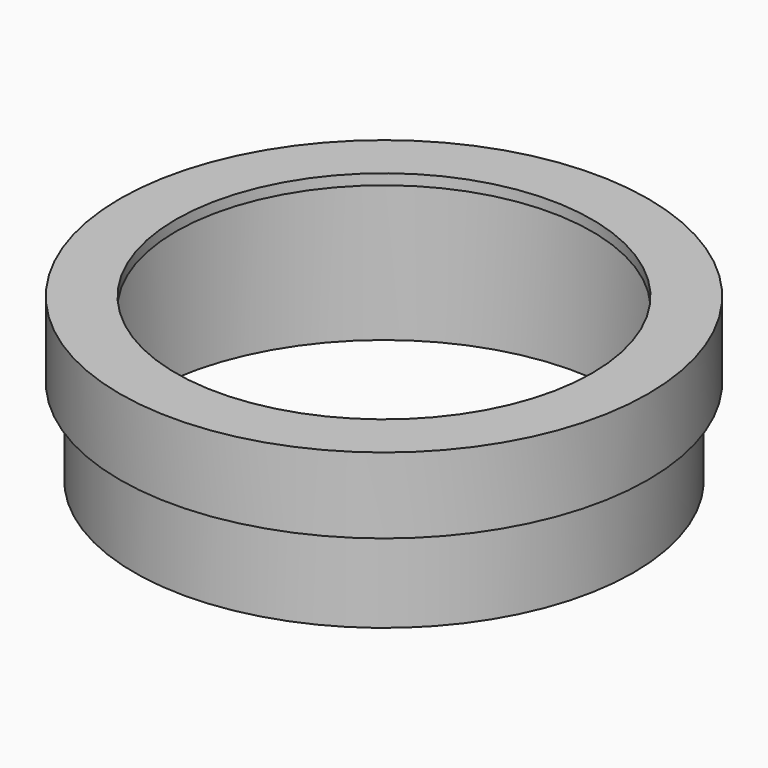
from build123d import *

# Parameters (mm, degrees)
F0_R     = 41.91
F0_R_2   = 39.8018
F1_DEPTH = 12.7


with BuildPart() as f1:
    # F0 (on Top) → F1 (new body, symmetric)
    with BuildSketch(Plane.XY):
        Circle(F0_R)
        Circle(F0_R_2, mode=Mode.SUBTRACT)
    extrude(amount=F1_DEPTH, both=True)

    # F2 (on Front) → F3 (revolve)
    with BuildSketch(Plane.XZ):
        Polygon((44.323, 14.478), (34.925, 14.478), (34.925, 12.7), (42.545, 12.7), (42.545, 1.778), (44.323, 1.778), align=None)
    revolve(axis=Axis((0, 0, 0.18584), (0, 0, -1)))


with BuildPart() as f4_1:
    # F4: copy of F1
    add(f1.part)


solid = Compound([f1.part, f4_1.part])
